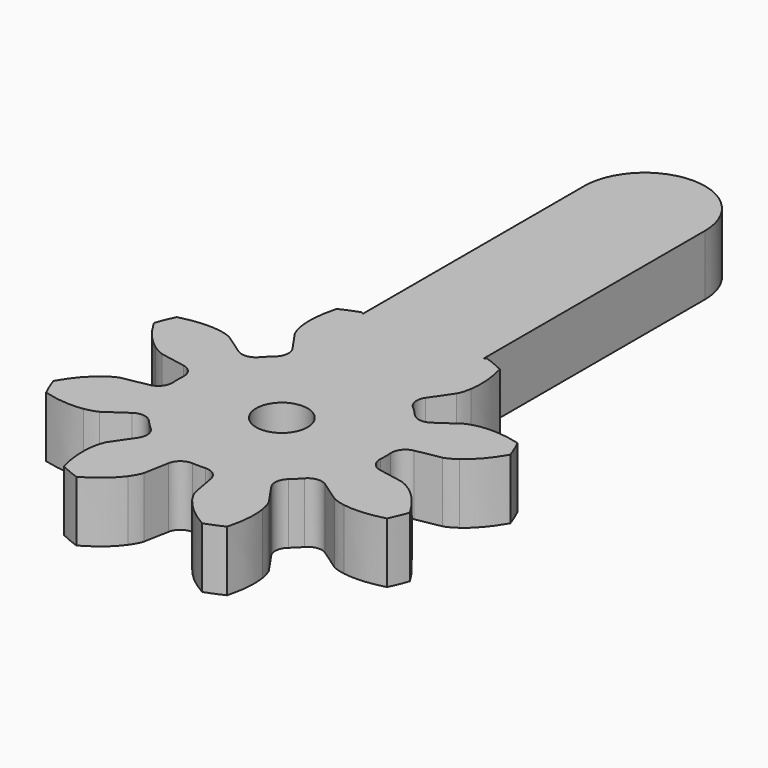
from build123d import *

# Parameters (mm, degrees)
CYLINDER003_R              = 1.7
CYLINDER003_DEPTH          = 10
EXTRUDE007_DEPTH           = 4
EXTRUDE005_DEPTH           = 4
EXTRUDE005_PLACEMENT_ANGLE = 22.5


with BuildPart() as cylinder003:
    # Cylinder003 → Cylinder003 (new body)
    with BuildSketch(Plane.XY.offset(-4)):
        Circle(CYLINDER003_R)
    extrude(amount=CYLINDER003_DEPTH)


with BuildPart() as link:
    # Sketch002 → Extrude007 (new body)
    with BuildSketch(Plane.XY):
        with BuildLine():
            ThreePointArc((-4, 0), (0, -4), (4, 0))
            Line((4, 0), (4, 30))
            ThreePointArc((4, 30), (0, 34), (-4, 30))
            Line((-4, 0), (-4, 30))
        make_face()
    extrude(amount=EXTRUDE007_DEPTH)


with BuildPart() as cut004:
    # InvoluteGear003 → Extrude005 (new body)
    with BuildSketch(Plane.XY):
        with BuildLine():
            Line((7.583619, -1.626335), (9.226112, -1.976129))
            add(Edge.make_bspline(
                [(9.226112, -1.976129), (9.323588, -1.988042), (9.615448, -2.006593), (10.112858, -1.891348)],
                knots=[0, 0, 0, 0, 1, 1, 1, 1], degree=3))
            add(Edge.make_bspline(
                [(10.112858, -1.891348), (10.701098, -1.749257), (11.528547, -1.419904), (12.486309, -0.674071)],
                knots=[0, 0, 0, 0, 1, 1, 1, 1], degree=3))
            ThreePointArc((12.486309, -0.674071), (12.504498, 0), (12.486309, 0.674071))
            add(Edge.make_bspline(
                [(12.486309, 0.674071), (11.528547, 1.419904), (10.701098, 1.749257), (10.112858, 1.891348)],
                knots=[0, 0, 0, 0, 1, 1, 1, 1], degree=3))
            add(Edge.make_bspline(
                [(10.112858, 1.891348), (9.615448, 2.006593), (9.323588, 1.988042), (9.226112, 1.976129)],
                knots=[0, 0, 0, 0, 1, 1, 1, 1], degree=3))
            Line((9.226112, 1.976129), (7.583619, 1.626335))
            ThreePointArc((7.583619, 1.626335), (6.928673, 1.725171), (6.502518, 2.232237))
            ThreePointArc((6.502518, 2.232237), (6.351672, 2.630949), (6.176404, 3.019545))
            ThreePointArc((6.176404, 3.019545), (6.119192, 3.679432), (6.512421, 4.212436))
            Line((6.512421, 4.212436), (7.92118, 5.126512))
            add(Edge.make_bspline(
                [(7.92118, 5.126512), (7.99853, 5.187015), (8.218024, 5.380273), (8.488255, 5.813485)],
                knots=[0, 0, 0, 0, 1, 1, 1, 1], degree=3))
            add(Edge.make_bspline(
                [(8.488255, 5.813485), (8.803731, 6.329908), (9.155937, 7.14789), (9.305795, 8.352514)],
                knots=[0, 0, 0, 0, 1, 1, 1, 1], degree=3))
            ThreePointArc((9.305795, 8.352514), (8.842015, 8.842015), (8.352514, 9.305795))
            add(Edge.make_bspline(
                [(8.352514, 9.305795), (7.14789, 9.155937), (6.329908, 8.803731), (5.813485, 8.488255)],
                knots=[0, 0, 0, 0, 1, 1, 1, 1], degree=3))
            add(Edge.make_bspline(
                [(5.813485, 8.488255), (5.380273, 8.218024), (5.187015, 7.99853), (5.126512, 7.92118)],
                knots=[0, 0, 0, 0, 1, 1, 1, 1], degree=3))
            Line((5.126512, 7.92118), (4.212436, 6.512421))
            ThreePointArc((4.212436, 6.512421), (3.679432, 6.119192), (3.019545, 6.176404))
            ThreePointArc((3.019545, 6.176404), (2.630949, 6.351672), (2.232237, 6.502518))
            ThreePointArc((2.232237, 6.502518), (1.725171, 6.928673), (1.626335, 7.583619))
            Line((1.626335, 7.583619), (1.976129, 9.226112))
            add(Edge.make_bspline(
                [(1.976129, 9.226112), (1.988042, 9.323588), (2.006593, 9.615448), (1.891348, 10.112858)],
                knots=[0, 0, 0, 0, 1, 1, 1, 1], degree=3))
            add(Edge.make_bspline(
                [(1.891348, 10.112858), (1.749257, 10.701098), (1.419904, 11.528547), (0.674071, 12.486309)],
                knots=[0, 0, 0, 0, 1, 1, 1, 1], degree=3))
            ThreePointArc((0.674071, 12.486309), (0, 12.504498), (-0.674071, 12.486309))
            add(Edge.make_bspline(
                [(-0.674071, 12.486309), (-1.419904, 11.528547), (-1.749257, 10.701098), (-1.891348, 10.112858)],
                knots=[0, 0, 0, 0, 1, 1, 1, 1], degree=3))
            add(Edge.make_bspline(
                [(-1.891348, 10.112858), (-2.006593, 9.615448), (-1.988042, 9.323588), (-1.976129, 9.226112)],
                knots=[0, 0, 0, 0, 1, 1, 1, 1], degree=3))
            Line((-1.976129, 9.226112), (-1.626335, 7.583619))
            ThreePointArc((-1.626335, 7.583619), (-1.725171, 6.928673), (-2.232237, 6.502518))
            ThreePointArc((-2.232237, 6.502518), (-2.630949, 6.351672), (-3.019545, 6.176404))
            ThreePointArc((-3.019545, 6.176404), (-3.679432, 6.119192), (-4.212436, 6.512421))
            Line((-4.212436, 6.512421), (-5.126512, 7.92118))
            add(Edge.make_bspline(
                [(-5.126512, 7.92118), (-5.187015, 7.99853), (-5.380273, 8.218024), (-5.813485, 8.488255)],
                knots=[0, 0, 0, 0, 1, 1, 1, 1], degree=3))
            add(Edge.make_bspline(
                [(-5.813485, 8.488255), (-6.329908, 8.803731), (-7.14789, 9.155937), (-8.352514, 9.305795)],
                knots=[0, 0, 0, 0, 1, 1, 1, 1], degree=3))
            ThreePointArc((-8.352514, 9.305795), (-8.842015, 8.842015), (-9.305795, 8.352514))
            add(Edge.make_bspline(
                [(-9.305795, 8.352514), (-9.155937, 7.14789), (-8.803731, 6.329908), (-8.488255, 5.813485)],
                knots=[0, 0, 0, 0, 1, 1, 1, 1], degree=3))
            add(Edge.make_bspline(
                [(-8.488255, 5.813485), (-8.218024, 5.380273), (-7.99853, 5.187015), (-7.92118, 5.126512)],
                knots=[0, 0, 0, 0, 1, 1, 1, 1], degree=3))
            Line((-7.92118, 5.126512), (-6.512421, 4.212436))
            ThreePointArc((-6.512421, 4.212436), (-6.119192, 3.679432), (-6.176404, 3.019545))
            ThreePointArc((-6.176404, 3.019545), (-6.351672, 2.630949), (-6.502518, 2.232237))
            ThreePointArc((-6.502518, 2.232237), (-6.928673, 1.725171), (-7.583619, 1.626335))
            Line((-7.583619, 1.626335), (-9.226112, 1.976129))
            add(Edge.make_bspline(
                [(-9.226112, 1.976129), (-9.323588, 1.988042), (-9.615448, 2.006593), (-10.112858, 1.891348)],
                knots=[0, 0, 0, 0, 1, 1, 1, 1], degree=3))
            add(Edge.make_bspline(
                [(-10.112858, 1.891348), (-10.701098, 1.749257), (-11.528547, 1.419904), (-12.486309, 0.674071)],
                knots=[0, 0, 0, 0, 1, 1, 1, 1], degree=3))
            ThreePointArc((-12.486309, 0.674071), (-12.504498, 0), (-12.486309, -0.674071))
            add(Edge.make_bspline(
                [(-12.486309, -0.674071), (-11.528547, -1.419904), (-10.701098, -1.749257), (-10.112858, -1.891348)],
                knots=[0, 0, 0, 0, 1, 1, 1, 1], degree=3))
            add(Edge.make_bspline(
                [(-10.112858, -1.891348), (-9.615448, -2.006593), (-9.323588, -1.988042), (-9.226112, -1.976129)],
                knots=[0, 0, 0, 0, 1, 1, 1, 1], degree=3))
            Line((-9.226112, -1.976129), (-7.583619, -1.626335))
            ThreePointArc((-7.583619, -1.626335), (-6.928673, -1.725171), (-6.502518, -2.232237))
            ThreePointArc((-6.502518, -2.232237), (-6.351672, -2.630949), (-6.176404, -3.019545))
            ThreePointArc((-6.176404, -3.019545), (-6.119192, -3.679432), (-6.512421, -4.212436))
            Line((-6.512421, -4.212436), (-7.92118, -5.126512))
            add(Edge.make_bspline(
                [(-7.92118, -5.126512), (-7.99853, -5.187015), (-8.218024, -5.380273), (-8.488255, -5.813485)],
                knots=[0, 0, 0, 0, 1, 1, 1, 1], degree=3))
            add(Edge.make_bspline(
                [(-8.488255, -5.813485), (-8.803731, -6.329908), (-9.155937, -7.14789), (-9.305795, -8.352514)],
                knots=[0, 0, 0, 0, 1, 1, 1, 1], degree=3))
            ThreePointArc((-9.305795, -8.352514), (-8.842015, -8.842015), (-8.352514, -9.305795))
            add(Edge.make_bspline(
                [(-8.352514, -9.305795), (-7.14789, -9.155937), (-6.329908, -8.803731), (-5.813485, -8.488255)],
                knots=[0, 0, 0, 0, 1, 1, 1, 1], degree=3))
            add(Edge.make_bspline(
                [(-5.813485, -8.488255), (-5.380273, -8.218024), (-5.187015, -7.99853), (-5.126512, -7.92118)],
                knots=[0, 0, 0, 0, 1, 1, 1, 1], degree=3))
            Line((-5.126512, -7.92118), (-4.212436, -6.512421))
            ThreePointArc((-4.212436, -6.512421), (-3.679432, -6.119192), (-3.019545, -6.176404))
            ThreePointArc((-3.019545, -6.176404), (-2.630949, -6.351672), (-2.232237, -6.502518))
            ThreePointArc((-2.232237, -6.502518), (-1.725171, -6.928673), (-1.626335, -7.583619))
            Line((-1.626335, -7.583619), (-1.976129, -9.226112))
            add(Edge.make_bspline(
                [(-1.976129, -9.226112), (-1.988042, -9.323588), (-2.006593, -9.615448), (-1.891348, -10.112858)],
                knots=[0, 0, 0, 0, 1, 1, 1, 1], degree=3))
            add(Edge.make_bspline(
                [(-1.891348, -10.112858), (-1.749257, -10.701098), (-1.419904, -11.528547), (-0.674071, -12.486309)],
                knots=[0, 0, 0, 0, 1, 1, 1, 1], degree=3))
            ThreePointArc((-0.674071, -12.486309), (0, -12.504498), (0.674071, -12.486309))
            add(Edge.make_bspline(
                [(0.674071, -12.486309), (1.419904, -11.528547), (1.749257, -10.701098), (1.891348, -10.112858)],
                knots=[0, 0, 0, 0, 1, 1, 1, 1], degree=3))
            add(Edge.make_bspline(
                [(1.891348, -10.112858), (2.006593, -9.615448), (1.988042, -9.323588), (1.976129, -9.226112)],
                knots=[0, 0, 0, 0, 1, 1, 1, 1], degree=3))
            Line((1.976129, -9.226112), (1.626335, -7.583619))
            ThreePointArc((1.626335, -7.583619), (1.725171, -6.928673), (2.232237, -6.502518))
            ThreePointArc((2.232237, -6.502518), (2.630949, -6.351672), (3.019545, -6.176404))
            ThreePointArc((3.019545, -6.176404), (3.679432, -6.119192), (4.212436, -6.512421))
            Line((4.212436, -6.512421), (5.126512, -7.92118))
            add(Edge.make_bspline(
                [(5.126512, -7.92118), (5.187015, -7.99853), (5.380273, -8.218024), (5.813485, -8.488255)],
                knots=[0, 0, 0, 0, 1, 1, 1, 1], degree=3))
            add(Edge.make_bspline(
                [(5.813485, -8.488255), (6.329908, -8.803731), (7.14789, -9.155937), (8.352514, -9.305795)],
                knots=[0, 0, 0, 0, 1, 1, 1, 1], degree=3))
            ThreePointArc((8.352514, -9.305795), (8.842015, -8.842015), (9.305795, -8.352514))
            add(Edge.make_bspline(
                [(9.305795, -8.352514), (9.155937, -7.14789), (8.803731, -6.329908), (8.488255, -5.813485)],
                knots=[0, 0, 0, 0, 1, 1, 1, 1], degree=3))
            add(Edge.make_bspline(
                [(8.488255, -5.813485), (8.218024, -5.380273), (7.99853, -5.187015), (7.92118, -5.126512)],
                knots=[0, 0, 0, 0, 1, 1, 1, 1], degree=3))
            Line((7.92118, -5.126512), (6.512421, -4.212436))
            ThreePointArc((6.512421, -4.212436), (6.119192, -3.679432), (6.176404, -3.019545))
            ThreePointArc((6.176404, -3.019545), (6.351672, -2.630949), (6.502518, -2.232237))
            ThreePointArc((6.502518, -2.232237), (6.928673, -1.725171), (7.583619, -1.626335))
        make_face()
    extrude(amount=EXTRUDE005_DEPTH)


with BuildPart() as cut004_1:
    # Extrude005 placement: moved
    add(cut004.part.rotate(Axis((0, 0, 0), (0, 0, 1)), EXTRUDE005_PLACEMENT_ANGLE))

    # Fusion: union link
    add(link.part)

    # Cut004: cut Cylinder003
    add(cylinder003.part, mode=Mode.SUBTRACT)


solid = cut004_1.part
